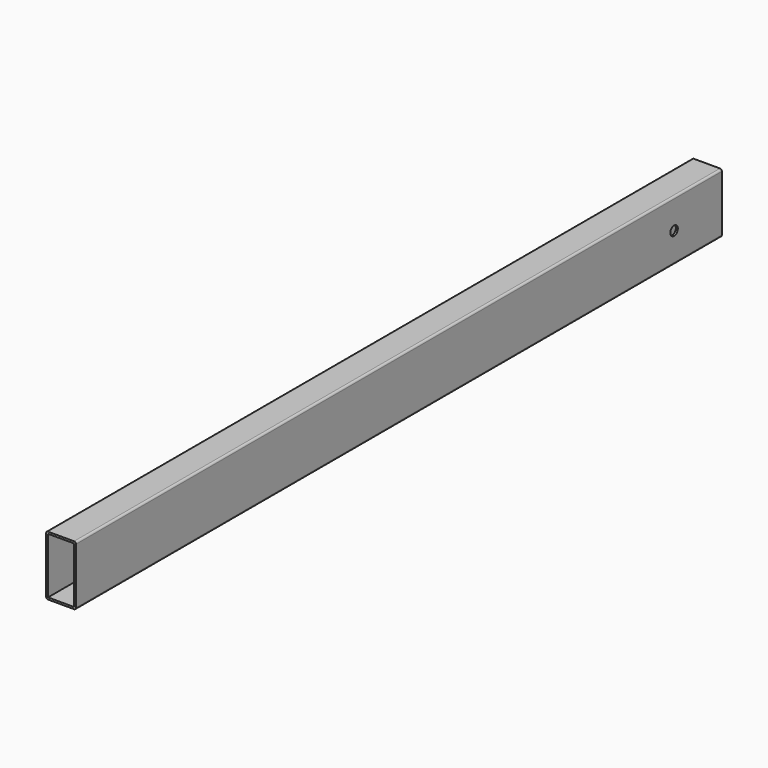
from build123d import *

# Parameters (mm, degrees)
F0_W     = 22.098
F0_H     = 47.498
F1_DEPTH = 685.8
F2_R     = 3.9751
F3_DEPTH = 1.651
F4_R     = 9.525
F5_DEPTH = 1.651


with BuildPart() as f1:
    # F0 (on Front) → F1 (new body)
    with BuildSketch(Plane.XZ):
        with BuildLine():
            ThreePointArc((0, 1.651), (0.483567, 0.483567), (1.651, 0))
            Line((1.651, 0), (23.749, 0))
            ThreePointArc((23.749, 0), (24.916433, 0.483567), (25.4, 1.651))
            Line((25.4, 1.651), (25.4, 49.149))
            ThreePointArc((25.4, 49.149), (24.916433, 50.316433), (23.749, 50.8))
            Line((23.749, 50.8), (1.651, 50.8))
            ThreePointArc((1.651, 50.8), (0.483567, 50.316433), (0, 49.149))
            Line((0, 49.149), (0, 1.651))
        make_face()
        with Locations((12.7, 25.4)):
            Rectangle(F0_W, F0_H, mode=Mode.SUBTRACT)
    extrude(amount=F1_DEPTH)

    # F2 (on face) → F3 (cut, through all)
    with BuildSketch(Plane.YZ.offset(25.4)):
        with Locations((-50.8, 25.4)):
            Circle(F2_R)
    extrude(amount=-F3_DEPTH, mode=Mode.SUBTRACT)

    # F4 (on face) → F5 (cut, through all)
    with BuildSketch(Plane(origin=(0, 0, 0), x_dir=(0, -1, 0), z_dir=(-1, 0, 0))):
        with Locations((50.8, 25.4)):
            Circle(F4_R)
    extrude(amount=-F5_DEPTH, mode=Mode.SUBTRACT)


solid = f1.part
